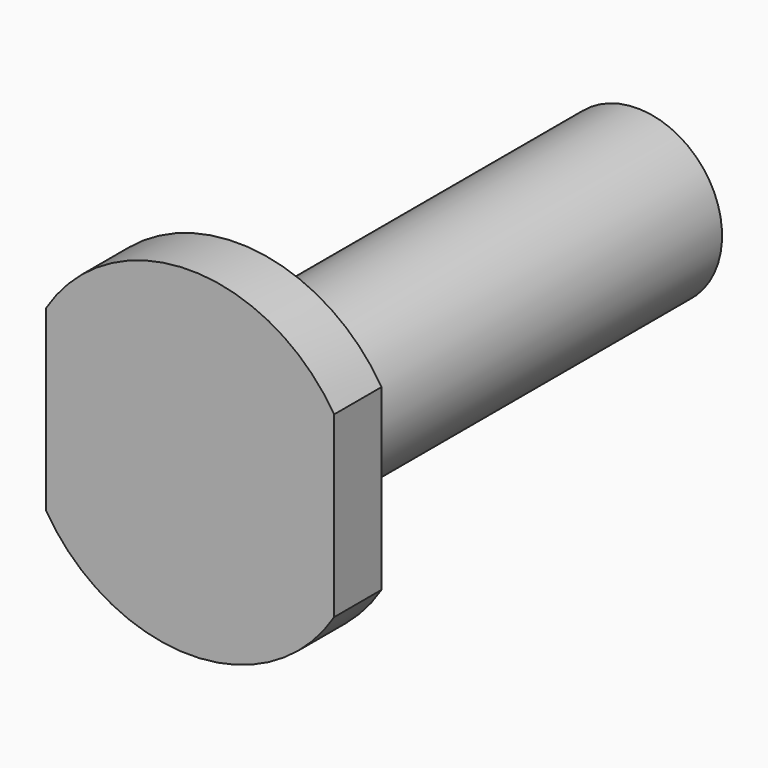
from build123d import *

# Parameters (mm, degrees)
F0_R     = 10
F1_DEPTH = 3.5
F2_R     = 5
F3_DEPTH = 29.5
F5_D     = 8
F5_DEPTH = 20
F5_TIP   = 2.4034424761
F7_DEPTH = 33.001


with BuildPart() as f1:
    # F0 (on Front) → F1 (new body)
    with BuildSketch(Plane.XZ):
        Circle(F0_R)
    extrude(amount=F1_DEPTH)

    # F2 (on face) → F3 (join)
    with BuildSketch(Plane(origin=(0, 0, 0), x_dir=(-1, 0, 0), z_dir=(0, 1, 0))):
        Circle(F2_R)
    extrude(amount=F3_DEPTH)

    # F5
    with Locations(Plane(origin=(0, 29.5, 0), x_dir=(-1, 0, 0), z_dir=(0, 1, 0))):
        with Locations((0, 0)):
            Hole(F5_D / 2, depth=F5_DEPTH)
            with Locations((0, 0, -(F5_DEPTH + F5_TIP / 2))):  # 118° drill point
                Cone(0, F5_D / 2, F5_TIP, mode=Mode.SUBTRACT)

    # F6 (on face) → F7 (cut, through all)
    with BuildSketch(Plane.XZ.offset(3.5)):
        with BuildLine():
            ThreePointArc((-8.5, 5.2678268764), (-10, 0), (-8.5, -5.2678268764))
            Line((-8.5, -5.2678268764), (-8.5, 5.2678268764))
        make_face()
        with BuildLine():
            Line((8.5, 5.2678268764), (8.5, -5.2678268764))
            ThreePointArc((8.5, -5.2678268764), (9.6176920308, -2.7386127875), (10, 0))
            ThreePointArc((10, 0), (9.6176920308, 2.7386127875), (8.5, 5.2678268764))
        make_face()
    extrude(amount=-F7_DEPTH, mode=Mode.SUBTRACT)


solid = f1.part
